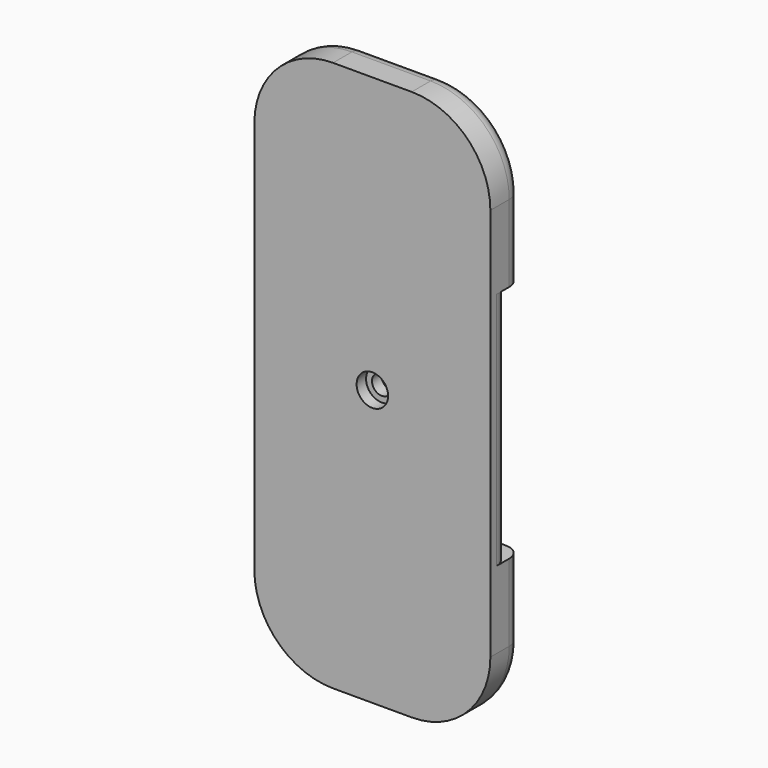
from build123d import *

# Parameters (mm, degrees)
SKETCH016_W     = 30
SKETCH016_H     = 70
PAD006_DEPTH    = 5
FILLET007_R     = 10
SKETCH017_W     = 30
SKETCH017_H     = 30.4
POCKET018_DEPTH = 2
FILLET008_R     = 2
FILLET009_R     = 2
SKETCH018_R     = 1.25
POCKET019_DEPTH = 9
SKETCH019_R     = 2
POCKET020_DEPTH = 1.5


with BuildPart() as part:
    # Sketch016 → Pad006 (new body)
    with BuildSketch(Plane.XZ):
        Rectangle(SKETCH016_W, SKETCH016_H)
    extrude(amount=PAD006_DEPTH)

    # Fillet007
    fillet007_edges = [part.edges().sort_by_distance(p)[0] for p in [
        (15, -2.5, -35),
        (-15, -2.5, -35),
        (15, -2.5, 35),
        (-15, -2.5, 35),
    ]]
    fillet(fillet007_edges, radius=FILLET007_R)

    # Sketch017 (on Face2 of Fillet007) → Pocket018 (cut)
    with BuildSketch(Plane(origin=(0, 0, 0), x_dir=(1, 0, 0), z_dir=(0, 1, 0))):
        Rectangle(SKETCH017_W, SKETCH017_H)
    extrude(amount=-POCKET018_DEPTH, mode=Mode.SUBTRACT)

    # Fillet008
    fillet008_edges = [part.edges().sort_by_distance(p)[0] for p in [
        (15, -2, 0),
        (-15, -2, 0),
    ]]
    fillet(fillet008_edges, radius=FILLET008_R)

    # Fillet009
    fillet009_edges = [part.edges().sort_by_distance(p)[0] for p in [
        (15, 0, -20.1),
        (15, 0, 20.1),
    ]]
    fillet(fillet009_edges, radius=FILLET009_R)

    # Sketch018 (on Face4 of Fillet009) → Pocket019 (cut)
    with BuildSketch(Plane.XZ.offset(5)):
        Circle(SKETCH018_R)
    extrude(amount=-POCKET019_DEPTH, mode=Mode.SUBTRACT)

    # Sketch019 (on Face4 of Pocket019) → Pocket020 (cut)
    with BuildSketch(Plane.XZ.offset(5)):
        Circle(SKETCH019_R)
    extrude(amount=-POCKET020_DEPTH, mode=Mode.SUBTRACT)


with BuildPart() as part_1:
    # Body003 placement: moved
    add(part.part.moved(Location((-0.25, -90.79, -8.4))))


solid = part_1.part
